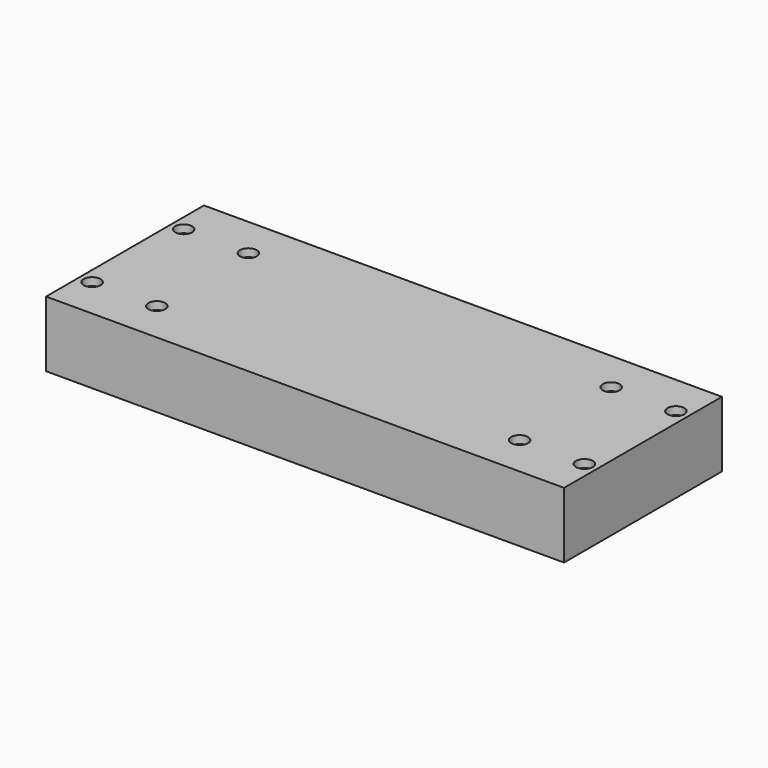
from build123d import *

# Parameters (mm, degrees)
F0_W           = 200.025
F0_H           = 76.2
F1_DEPTH       = 25.4
F3_D           = 3.4
F3_CBORE_D     = 6.5
F3_CBORE_DEPTH = 3


with BuildPart() as f1:
    # F0 (on Top) → F1 (new body)
    with BuildSketch(Plane.XY):
        with Locations((100.0125, 38.1)):
            Rectangle(F0_W, F0_H)
    extrude(amount=F1_DEPTH)

    # F3 (through all)
    with Locations(Plane.XY.offset(25.4)):
        with Locations((4.9625, 60.2), (29.9625, 60.2), (4.9625, 16), (29.9625, 16), (170.0625, 60.2), (195.0625, 60.2), (170.0625, 16), (195.0625, 16)):
            CounterBoreHole(F3_D / 2, F3_CBORE_D / 2, F3_CBORE_DEPTH)


solid = f1.part
